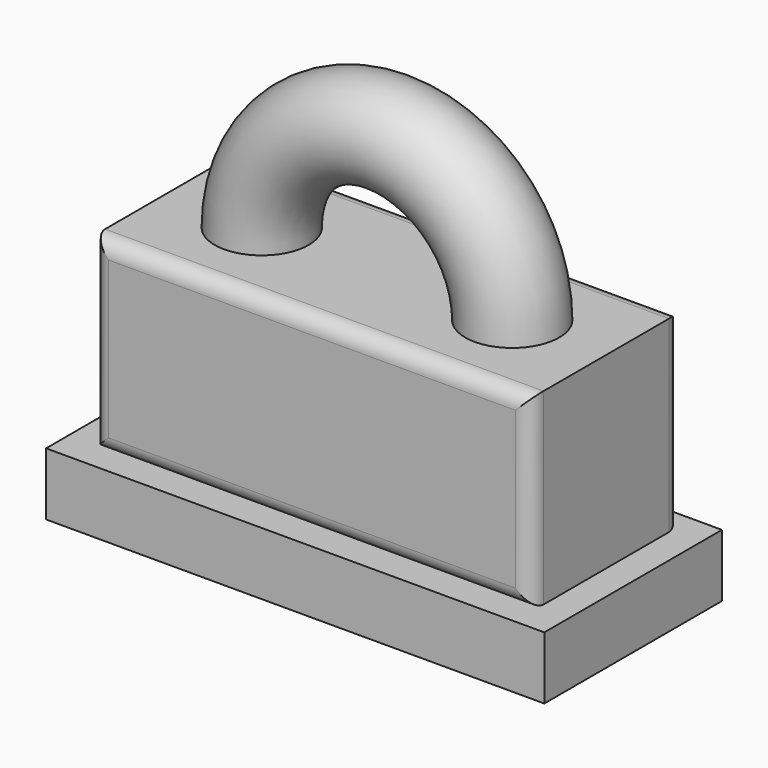
from build123d import *

# Parameters (mm, degrees)
F0_W     = 88.9
F0_H     = 38.1
F1_DEPTH = 38.1
F2_R     = 9.525
F4_R     = 3.175
F5_W     = 101.025582
F5_H     = 45.01648
F6_DEPTH = 12.7


with BuildPart() as f1:
    # F0 (on Front) → F1 (new body)
    with BuildSketch(Plane.XZ):
        Rectangle(F0_W, F0_H)
    extrude(amount=F1_DEPTH)

    # F2 (on face) → F3 (revolve)
    with BuildSketch(Plane.XY.offset(19.05)):
        with Locations((-25.4, -19.05)):
            Circle(F2_R)
    revolve(axis=Axis((0, -24.738075, 19.05), (0, -1, 0)))

    # F4
    f4_edges = [f1.edges().sort_by_distance(p)[0] for p in [
        (44.45, -38.1, 0),
        (0, -38.1, 19.05),
        (-44.45, -38.1, 0),
        (0, -38.1, -19.05),
        (44.45, 0, 0),
        (0, 0, 19.05),
        (-44.45, 0, 0),
        (0, 0, -19.05),
    ]]
    fillet(f4_edges, radius=F4_R)


with BuildPart() as f6:
    # F5 (on face) → F6 (new body)
    with BuildSketch(Plane(origin=(0, 0, -19.05), x_dir=(1, 0, 0), z_dir=(0, 0, -1))):
        with Locations((0, 19.805645)):
            Rectangle(F5_W, F5_H)
    extrude(amount=F6_DEPTH)


solid = Compound([f1.part, f6.part])
